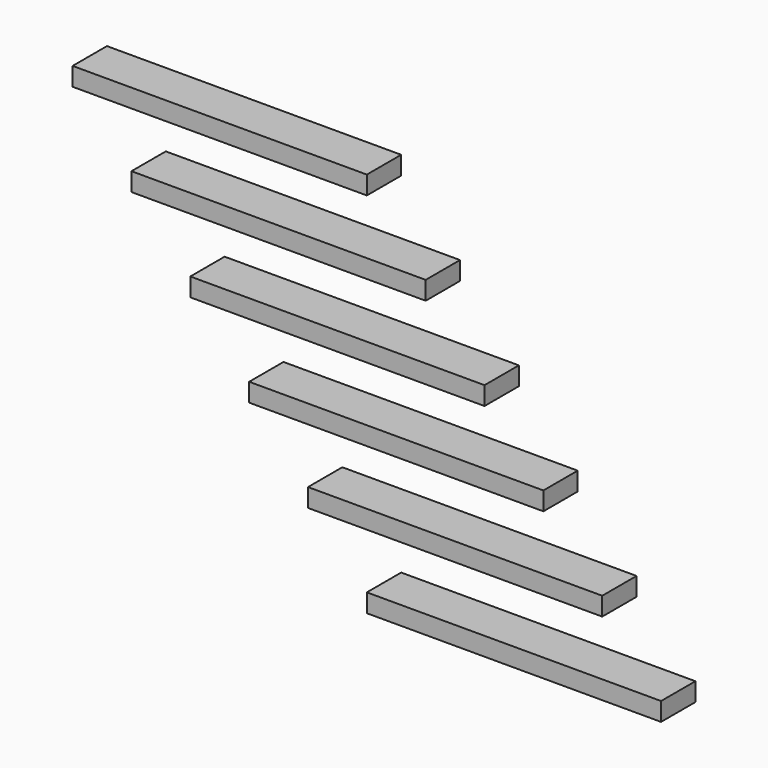
from build123d import *

# Parameters (mm, degrees)
F0_W     = 88.9
F0_H     = 38.1
F1_DEPTH = 609.6


with BuildPart() as f1:
    # F0 (on Right) → F1 (new body)
    with BuildSketch(Plane.YZ):
        with Locations((-107.95, 273.05)):
            Rectangle(F0_W, F0_H)
        with Locations((-260.35, 527.05)):
            Rectangle(F0_W, F0_H)
        with Locations((-412.75, 781.05)):
            Rectangle(F0_W, F0_H)
        with Locations((-565.15, 1035.05)):
            Rectangle(F0_W, F0_H)
        with Locations((-717.55, 1289.05)):
            Rectangle(F0_W, F0_H)
        with Locations((-869.95, 1543.05)):
            Rectangle(F0_W, F0_H)
    extrude(amount=F1_DEPTH)


solid = f1.part
